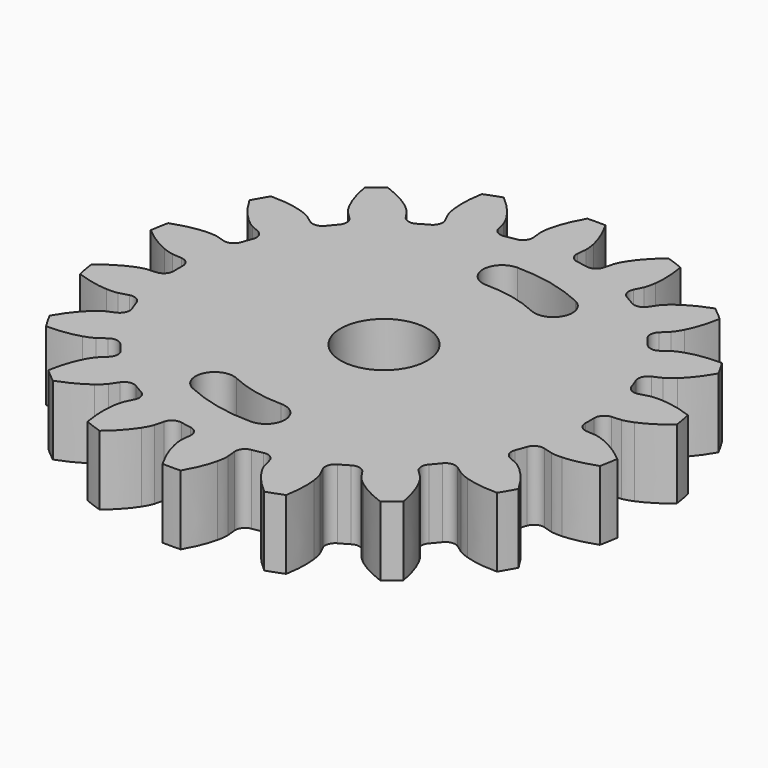
from build123d import *

# Parameters (mm, degrees)
CYLINDER003_R     = 2.5
CYLINDER003_DEPTH = 10
PAD011_DEPTH      = 5
PAD010_DEPTH      = 4


with BuildPart() as cylinder003:
    # Cylinder003 → Cylinder003 (new body)
    with BuildSketch(Plane(origin=(28, 0, 0), x_dir=(1, 0, 0), z_dir=(0, 0, 1))):
        Circle(CYLINDER003_R)
    extrude(amount=CYLINDER003_DEPTH)


with BuildPart() as pad011:
    # Sketch010 → Pad011 (new body)
    with BuildSketch(Plane(origin=(28, 0, 0), x_dir=(1, 0, 0), z_dir=(0, 0, 1))):
        with BuildLine():
            ThreePointArc((3.127375, 6.706678), (1.601653, 7.22459), (0, 7.4))
            ThreePointArc((0, 9.6), (-1.1, 8.5), (0, 7.4))
            ThreePointArc((4.057135, 8.700555), (2.07782, 9.372442), (0, 9.6))
            ThreePointArc((3.127375, 6.706678), (4.589194, 7.238736), (4.057135, 8.700555))
        make_face()
        with BuildLine():
            ThreePointArc((-3.127375, -6.706678), (-1.601653, -7.22459), (0, -7.4))
            ThreePointArc((0, -9.6), (1.1, -8.5), (0, -7.4))
            ThreePointArc((-4.057135, -8.700555), (-2.07782, -9.372442), (0, -9.6))
            ThreePointArc((-3.127375, -6.706678), (-4.589194, -7.238736), (-4.057135, -8.700555))
        make_face()
    extrude(amount=PAD011_DEPTH)


with BuildPart() as cut019:
    # InvoluteGear003 → Pad010 (new body)
    with BuildSketch(Plane(origin=(28, 0, 0), x_dir=(0.984808, 0.173648, 0), z_dir=(0, 0, 1))):
        with BuildLine():
            Line((12.353244, -1.266552), (12.898676, -1.321311))
            add(Edge.make_bspline(
                [(12.898676, -1.321311), (12.968588, -1.323993), (13.178929, -1.323215), (13.530236, -1.24626)],
                knots=[0, 0, 0, 0, 1, 1, 1, 1], degree=3))
            add(Edge.make_bspline(
                [(13.530236, -1.24626), (13.95014, -1.152721), (14.553309, -0.951206), (15.292872, -0.520698)],
                knots=[0, 0, 0, 0, 1, 1, 1, 1], degree=3))
            ThreePointArc((15.292872, -0.520698), (15.301735, 0), (15.292872, 0.520698))
            add(Edge.make_bspline(
                [(15.292872, 0.520698), (14.553309, 0.951206), (13.95014, 1.152721), (13.530236, 1.24626)],
                knots=[0, 0, 0, 0, 1, 1, 1, 1], degree=3))
            add(Edge.make_bspline(
                [(13.530236, 1.24626), (13.178929, 1.323215), (12.968588, 1.323993), (12.898676, 1.321311)],
                knots=[0, 0, 0, 0, 1, 1, 1, 1], degree=3))
            Line((12.898676, 1.321311), (12.353244, 1.266552))
            ThreePointArc((12.353244, 1.266552), (11.943115, 1.383923), (11.727363, 1.751934))
            ThreePointArc((11.727363, 1.751934), (11.677358, 2.059033), (11.619313, 2.364714))
            ThreePointArc((11.619313, 2.364714), (11.696187, 2.784324), (12.041438, 3.034889))
            Line((12.041438, 3.034889), (12.572705, 3.169981))
            add(Edge.make_bspline(
                [(12.572705, 3.169981), (12.639319, 3.191372), (12.836708, 3.264043), (13.14051, 3.456512)],
                knots=[0, 0, 0, 0, 1, 1, 1, 1], degree=3))
            add(Edge.make_bspline(
                [(13.14051, 3.456512), (13.503097, 3.688025), (14.000969, 4.083683), (14.548688, 4.741174)],
                knots=[0, 0, 0, 0, 1, 1, 1, 1], degree=3))
            ThreePointArc((14.548688, 4.741174), (14.378928, 5.233502), (14.19251, 5.719766))
            add(Edge.make_bspline(
                [(14.19251, 5.719766), (13.350306, 5.871367), (12.714589, 5.854432), (12.288017, 5.798715)],
                knots=[0, 0, 0, 0, 1, 1, 1, 1], degree=3))
            add(Edge.make_bspline(
                [(12.288017, 5.798715), (11.931576, 5.750875), (11.733654, 5.679665), (11.668876, 5.653233)],
                knots=[0, 0, 0, 0, 1, 1, 1, 1], degree=3))
            Line((11.668876, 5.653233), (11.175066, 5.415227))
            ThreePointArc((11.175066, 5.415227), (10.749528, 5.385248), (10.420919, 5.657274))
            ThreePointArc((10.420919, 5.657274), (10.268896, 5.92875), (10.109803, 6.196144))
            ThreePointArc((10.109803, 6.196144), (10.038525, 6.61674), (10.277258, 6.970277))
            Line((10.277258, 6.970277), (10.730281, 7.278926))
            add(Edge.make_bspline(
                [(10.730281, 7.278926), (10.785561, 7.32181), (10.946192, 7.45761), (11.165843, 7.742377)],
                knots=[0, 0, 0, 0, 1, 1, 1, 1], degree=3))
            add(Edge.make_bspline(
                [(11.165843, 7.742377), (11.427382, 8.083941), (11.759905, 8.626021), (12.049718, 9.431191)],
                knots=[0, 0, 0, 0, 1, 1, 1, 1], degree=3))
            ThreePointArc((12.049718, 9.431191), (11.721809, 9.835766), (11.380322, 10.228946))
            add(Edge.make_bspline(
                [(11.380322, 10.228946), (10.537058, 10.083353), (9.945472, 9.850013), (9.563682, 9.651759)],
                knots=[0, 0, 0, 0, 1, 1, 1, 1], degree=3))
            add(Edge.make_bspline(
                [(9.563682, 9.651759), (9.245099, 9.484894), (9.083468, 9.350285), (9.031637, 9.303292)],
                knots=[0, 0, 0, 0, 1, 1, 1, 1], degree=3))
            Line((9.031637, 9.303292), (8.64901, 8.910747))
            ThreePointArc((8.64901, 8.910747), (8.259388, 8.737033), (7.857559, 8.880263))
            ThreePointArc((7.857559, 8.880263), (7.621854, 9.083372), (7.380901, 9.280227))
            ThreePointArc((7.380901, 9.280227), (7.17007, 9.65108), (7.273488, 10.064947))
            Line((7.273488, 10.064947), (7.593626, 10.509926))
            add(Edge.make_bspline(
                [(7.593626, 10.509926), (7.630906, 10.56913), (7.735403, 10.751679), (7.844411, 11.094398)],
                knots=[0, 0, 0, 0, 1, 1, 1, 1], degree=3))
            add(Edge.make_bspline(
                [(7.844411, 11.094398), (7.973356, 11.504815), (8.100424, 12.127932), (8.097374, 12.983667)],
                knots=[0, 0, 0, 0, 1, 1, 1, 1], degree=3))
            ThreePointArc((8.097374, 12.983667), (7.650868, 13.251691), (7.195499, 13.504365))
            add(Edge.make_bspline(
                [(7.195499, 13.504365), (6.452886, 13.079139), (5.976784, 12.657536), (5.685825, 12.340659)],
                knots=[0, 0, 0, 0, 1, 1, 1, 1], degree=3))
            add(Edge.make_bspline(
                [(5.685825, 12.340659), (5.443526, 12.074895), (5.337682, 11.893123), (5.305049, 11.831236)],
                knots=[0, 0, 0, 0, 1, 1, 1, 1], degree=3))
            Line((5.305049, 11.831236), (5.079756, 11.331499))
            ThreePointArc((5.079756, 11.331499), (4.773045, 11.035002), (4.346462, 11.032161))
            ThreePointArc((4.346462, 11.032161), (4.055504, 11.142405), (3.761754, 11.244977))
            ThreePointArc((3.761754, 11.244977), (3.436798, 11.521357), (3.392428, 11.945636))
            Line((3.392428, 11.945636), (3.541068, 12.473273))
            add(Edge.make_bspline(
                [(3.541068, 12.473273), (3.555851, 12.541657), (3.59161, 12.748937), (3.576828, 13.108271)],
                knots=[0, 0, 0, 0, 1, 1, 1, 1], degree=3))
            add(Edge.make_bspline(
                [(3.576828, 13.108271), (3.557625, 13.538038), (3.463911, 14.167037), (3.168367, 14.970121)],
                knots=[0, 0, 0, 0, 1, 1, 1, 1], degree=3))
            ThreePointArc((3.168367, 14.970121), (2.657118, 15.069267), (2.142792, 15.150957))
            add(Edge.make_bspline(
                [(2.142792, 15.150957), (1.5904, 14.497387), (1.287208, 13.938374), (1.122174, 13.541093)],
                knots=[0, 0, 0, 0, 1, 1, 1, 1], degree=3))
            add(Edge.make_bspline(
                [(1.122174, 13.541093), (0.985384, 13.208485), (0.948093, 13.001475), (0.938595, 12.932159)],
                knots=[0, 0, 0, 0, 1, 1, 1, 1], degree=3))
            Line((0.938595, 12.932159), (0.897808, 12.385505))
            ThreePointArc((0.897808, 12.385505), (0.711002, 12.001988), (0.311117, 11.853418))
            ThreePointArc((0.311117, 11.853418), (0, 11.8575), (-0.311117, 11.853418))
            ThreePointArc((-0.311117, 11.853418), (-0.711002, 12.001988), (-0.897808, 12.385505))
            Line((-0.897808, 12.385505), (-0.938595, 12.932159))
            add(Edge.make_bspline(
                [(-0.938595, 12.932159), (-0.948093, 13.001475), (-0.985384, 13.208485), (-1.122174, 13.541093)],
                knots=[0, 0, 0, 0, 1, 1, 1, 1], degree=3))
            add(Edge.make_bspline(
                [(-1.122174, 13.541093), (-1.287208, 13.938374), (-1.5904, 14.497387), (-2.142792, 15.150957)],
                knots=[0, 0, 0, 0, 1, 1, 1, 1], degree=3))
            ThreePointArc((-2.142792, 15.150957), (-2.657118, 15.069267), (-3.168367, 14.970121))
            add(Edge.make_bspline(
                [(-3.168367, 14.970121), (-3.463911, 14.167037), (-3.557625, 13.538038), (-3.576828, 13.108271)],
                knots=[0, 0, 0, 0, 1, 1, 1, 1], degree=3))
            add(Edge.make_bspline(
                [(-3.576828, 13.108271), (-3.59161, 12.748937), (-3.555851, 12.541657), (-3.541068, 12.473273)],
                knots=[0, 0, 0, 0, 1, 1, 1, 1], degree=3))
            Line((-3.541068, 12.473273), (-3.392428, 11.945636))
            ThreePointArc((-3.392428, 11.945636), (-3.436798, 11.521357), (-3.761754, 11.244977))
            ThreePointArc((-3.761754, 11.244977), (-4.055504, 11.142405), (-4.346462, 11.032161))
            ThreePointArc((-4.346462, 11.032161), (-4.773045, 11.035002), (-5.079756, 11.331499))
            Line((-5.079756, 11.331499), (-5.305049, 11.831236))
            add(Edge.make_bspline(
                [(-5.305049, 11.831236), (-5.337682, 11.893123), (-5.443526, 12.074895), (-5.685825, 12.340659)],
                knots=[0, 0, 0, 0, 1, 1, 1, 1], degree=3))
            add(Edge.make_bspline(
                [(-5.685825, 12.340659), (-5.976784, 12.657536), (-6.452886, 13.079139), (-7.195499, 13.504365)],
                knots=[0, 0, 0, 0, 1, 1, 1, 1], degree=3))
            ThreePointArc((-7.195499, 13.504365), (-7.650868, 13.251691), (-8.097374, 12.983667))
            add(Edge.make_bspline(
                [(-8.097374, 12.983667), (-8.100424, 12.127932), (-7.973356, 11.504815), (-7.844411, 11.094398)],
                knots=[0, 0, 0, 0, 1, 1, 1, 1], degree=3))
            add(Edge.make_bspline(
                [(-7.844411, 11.094398), (-7.735403, 10.751679), (-7.630906, 10.56913), (-7.593626, 10.509926)],
                knots=[0, 0, 0, 0, 1, 1, 1, 1], degree=3))
            Line((-7.593626, 10.509926), (-7.273488, 10.064947))
            ThreePointArc((-7.273488, 10.064947), (-7.17007, 9.65108), (-7.380901, 9.280227))
            ThreePointArc((-7.380901, 9.280227), (-7.621854, 9.083372), (-7.857559, 8.880263))
            ThreePointArc((-7.857559, 8.880263), (-8.259388, 8.737033), (-8.64901, 8.910747))
            Line((-8.64901, 8.910747), (-9.031637, 9.303292))
            add(Edge.make_bspline(
                [(-9.031637, 9.303292), (-9.083468, 9.350285), (-9.245099, 9.484894), (-9.563682, 9.651759)],
                knots=[0, 0, 0, 0, 1, 1, 1, 1], degree=3))
            add(Edge.make_bspline(
                [(-9.563682, 9.651759), (-9.945472, 9.850013), (-10.537058, 10.083353), (-11.380322, 10.228946)],
                knots=[0, 0, 0, 0, 1, 1, 1, 1], degree=3))
            ThreePointArc((-11.380322, 10.228946), (-11.721809, 9.835766), (-12.049718, 9.431191))
            add(Edge.make_bspline(
                [(-12.049718, 9.431191), (-11.759905, 8.626021), (-11.427382, 8.083941), (-11.165843, 7.742377)],
                knots=[0, 0, 0, 0, 1, 1, 1, 1], degree=3))
            add(Edge.make_bspline(
                [(-11.165843, 7.742377), (-10.946192, 7.45761), (-10.785561, 7.32181), (-10.730281, 7.278926)],
                knots=[0, 0, 0, 0, 1, 1, 1, 1], degree=3))
            Line((-10.730281, 7.278926), (-10.277258, 6.970277))
            ThreePointArc((-10.277258, 6.970277), (-10.038525, 6.61674), (-10.109803, 6.196144))
            ThreePointArc((-10.109803, 6.196144), (-10.268896, 5.92875), (-10.420919, 5.657274))
            ThreePointArc((-10.420919, 5.657274), (-10.749528, 5.385248), (-11.175066, 5.415227))
            Line((-11.175066, 5.415227), (-11.668876, 5.653233))
            add(Edge.make_bspline(
                [(-11.668876, 5.653233), (-11.733654, 5.679665), (-11.931576, 5.750875), (-12.288017, 5.798715)],
                knots=[0, 0, 0, 0, 1, 1, 1, 1], degree=3))
            add(Edge.make_bspline(
                [(-12.288017, 5.798715), (-12.714589, 5.854432), (-13.350306, 5.871367), (-14.19251, 5.719766)],
                knots=[0, 0, 0, 0, 1, 1, 1, 1], degree=3))
            ThreePointArc((-14.19251, 5.719766), (-14.378928, 5.233502), (-14.548688, 4.741174))
            add(Edge.make_bspline(
                [(-14.548688, 4.741174), (-14.000969, 4.083683), (-13.503097, 3.688025), (-13.14051, 3.456512)],
                knots=[0, 0, 0, 0, 1, 1, 1, 1], degree=3))
            add(Edge.make_bspline(
                [(-13.14051, 3.456512), (-12.836708, 3.264043), (-12.639319, 3.191372), (-12.572705, 3.169981)],
                knots=[0, 0, 0, 0, 1, 1, 1, 1], degree=3))
            Line((-12.572705, 3.169981), (-12.041438, 3.034889))
            ThreePointArc((-12.041438, 3.034889), (-11.696187, 2.784324), (-11.619313, 2.364714))
            ThreePointArc((-11.619313, 2.364714), (-11.677358, 2.059033), (-11.727363, 1.751934))
            ThreePointArc((-11.727363, 1.751934), (-11.943115, 1.383923), (-12.353244, 1.266552))
            Line((-12.353244, 1.266552), (-12.898676, 1.321311))
            add(Edge.make_bspline(
                [(-12.898676, 1.321311), (-12.968588, 1.323993), (-13.178929, 1.323215), (-13.530236, 1.24626)],
                knots=[0, 0, 0, 0, 1, 1, 1, 1], degree=3))
            add(Edge.make_bspline(
                [(-13.530236, 1.24626), (-13.95014, 1.152721), (-14.553309, 0.951206), (-15.292872, 0.520698)],
                knots=[0, 0, 0, 0, 1, 1, 1, 1], degree=3))
            ThreePointArc((-15.292872, 0.520698), (-15.301735, 0), (-15.292872, -0.520698))
            add(Edge.make_bspline(
                [(-15.292872, -0.520698), (-14.553309, -0.951206), (-13.95014, -1.152721), (-13.530236, -1.24626)],
                knots=[0, 0, 0, 0, 1, 1, 1, 1], degree=3))
            add(Edge.make_bspline(
                [(-13.530236, -1.24626), (-13.178929, -1.323215), (-12.968588, -1.323993), (-12.898676, -1.321311)],
                knots=[0, 0, 0, 0, 1, 1, 1, 1], degree=3))
            Line((-12.898676, -1.321311), (-12.353244, -1.266552))
            ThreePointArc((-12.353244, -1.266552), (-11.943115, -1.383923), (-11.727363, -1.751934))
            ThreePointArc((-11.727363, -1.751934), (-11.677358, -2.059033), (-11.619313, -2.364714))
            ThreePointArc((-11.619313, -2.364714), (-11.696187, -2.784324), (-12.041438, -3.034889))
            Line((-12.041438, -3.034889), (-12.572705, -3.169981))
            add(Edge.make_bspline(
                [(-12.572705, -3.169981), (-12.639319, -3.191372), (-12.836708, -3.264043), (-13.14051, -3.456512)],
                knots=[0, 0, 0, 0, 1, 1, 1, 1], degree=3))
            add(Edge.make_bspline(
                [(-13.14051, -3.456512), (-13.503097, -3.688025), (-14.000969, -4.083683), (-14.548688, -4.741174)],
                knots=[0, 0, 0, 0, 1, 1, 1, 1], degree=3))
            ThreePointArc((-14.548688, -4.741174), (-14.378928, -5.233502), (-14.19251, -5.719766))
            add(Edge.make_bspline(
                [(-14.19251, -5.719766), (-13.350306, -5.871367), (-12.714589, -5.854432), (-12.288017, -5.798715)],
                knots=[0, 0, 0, 0, 1, 1, 1, 1], degree=3))
            add(Edge.make_bspline(
                [(-12.288017, -5.798715), (-11.931576, -5.750875), (-11.733654, -5.679665), (-11.668876, -5.653233)],
                knots=[0, 0, 0, 0, 1, 1, 1, 1], degree=3))
            Line((-11.668876, -5.653233), (-11.175066, -5.415227))
            ThreePointArc((-11.175066, -5.415227), (-10.749528, -5.385248), (-10.420919, -5.657274))
            ThreePointArc((-10.420919, -5.657274), (-10.268896, -5.92875), (-10.109803, -6.196144))
            ThreePointArc((-10.109803, -6.196144), (-10.038525, -6.61674), (-10.277258, -6.970277))
            Line((-10.277258, -6.970277), (-10.730281, -7.278926))
            add(Edge.make_bspline(
                [(-10.730281, -7.278926), (-10.785561, -7.32181), (-10.946192, -7.45761), (-11.165843, -7.742377)],
                knots=[0, 0, 0, 0, 1, 1, 1, 1], degree=3))
            add(Edge.make_bspline(
                [(-11.165843, -7.742377), (-11.427382, -8.083941), (-11.759905, -8.626021), (-12.049718, -9.431191)],
                knots=[0, 0, 0, 0, 1, 1, 1, 1], degree=3))
            ThreePointArc((-12.049718, -9.431191), (-11.721809, -9.835766), (-11.380322, -10.228946))
            add(Edge.make_bspline(
                [(-11.380322, -10.228946), (-10.537058, -10.083353), (-9.945472, -9.850013), (-9.563682, -9.651759)],
                knots=[0, 0, 0, 0, 1, 1, 1, 1], degree=3))
            add(Edge.make_bspline(
                [(-9.563682, -9.651759), (-9.245099, -9.484894), (-9.083468, -9.350285), (-9.031637, -9.303292)],
                knots=[0, 0, 0, 0, 1, 1, 1, 1], degree=3))
            Line((-9.031637, -9.303292), (-8.64901, -8.910747))
            ThreePointArc((-8.64901, -8.910747), (-8.259388, -8.737033), (-7.857559, -8.880263))
            ThreePointArc((-7.857559, -8.880263), (-7.621854, -9.083372), (-7.380901, -9.280227))
            ThreePointArc((-7.380901, -9.280227), (-7.17007, -9.65108), (-7.273488, -10.064947))
            Line((-7.273488, -10.064947), (-7.593626, -10.509926))
            add(Edge.make_bspline(
                [(-7.593626, -10.509926), (-7.630906, -10.56913), (-7.735403, -10.751679), (-7.844411, -11.094398)],
                knots=[0, 0, 0, 0, 1, 1, 1, 1], degree=3))
            add(Edge.make_bspline(
                [(-7.844411, -11.094398), (-7.973356, -11.504815), (-8.100424, -12.127932), (-8.097374, -12.983667)],
                knots=[0, 0, 0, 0, 1, 1, 1, 1], degree=3))
            ThreePointArc((-8.097374, -12.983667), (-7.650868, -13.251691), (-7.195499, -13.504365))
            add(Edge.make_bspline(
                [(-7.195499, -13.504365), (-6.452886, -13.079139), (-5.976784, -12.657536), (-5.685825, -12.340659)],
                knots=[0, 0, 0, 0, 1, 1, 1, 1], degree=3))
            add(Edge.make_bspline(
                [(-5.685825, -12.340659), (-5.443526, -12.074895), (-5.337682, -11.893123), (-5.305049, -11.831236)],
                knots=[0, 0, 0, 0, 1, 1, 1, 1], degree=3))
            Line((-5.305049, -11.831236), (-5.079756, -11.331499))
            ThreePointArc((-5.079756, -11.331499), (-4.773045, -11.035002), (-4.346462, -11.032161))
            ThreePointArc((-4.346462, -11.032161), (-4.055504, -11.142405), (-3.761754, -11.244977))
            ThreePointArc((-3.761754, -11.244977), (-3.436798, -11.521357), (-3.392428, -11.945636))
            Line((-3.392428, -11.945636), (-3.541068, -12.473273))
            add(Edge.make_bspline(
                [(-3.541068, -12.473273), (-3.555851, -12.541657), (-3.59161, -12.748937), (-3.576828, -13.108271)],
                knots=[0, 0, 0, 0, 1, 1, 1, 1], degree=3))
            add(Edge.make_bspline(
                [(-3.576828, -13.108271), (-3.557625, -13.538038), (-3.463911, -14.167037), (-3.168367, -14.970121)],
                knots=[0, 0, 0, 0, 1, 1, 1, 1], degree=3))
            ThreePointArc((-3.168367, -14.970121), (-2.657118, -15.069267), (-2.142792, -15.150957))
            add(Edge.make_bspline(
                [(-2.142792, -15.150957), (-1.5904, -14.497387), (-1.287208, -13.938374), (-1.122174, -13.541093)],
                knots=[0, 0, 0, 0, 1, 1, 1, 1], degree=3))
            add(Edge.make_bspline(
                [(-1.122174, -13.541093), (-0.985384, -13.208485), (-0.948093, -13.001475), (-0.938595, -12.932159)],
                knots=[0, 0, 0, 0, 1, 1, 1, 1], degree=3))
            Line((-0.938595, -12.932159), (-0.897808, -12.385505))
            ThreePointArc((-0.897808, -12.385505), (-0.711002, -12.001988), (-0.311117, -11.853418))
            ThreePointArc((-0.311117, -11.853418), (0, -11.8575), (0.311117, -11.853418))
            ThreePointArc((0.311117, -11.853418), (0.711002, -12.001988), (0.897808, -12.385505))
            Line((0.897808, -12.385505), (0.938595, -12.932159))
            add(Edge.make_bspline(
                [(0.938595, -12.932159), (0.948093, -13.001475), (0.985384, -13.208485), (1.122174, -13.541093)],
                knots=[0, 0, 0, 0, 1, 1, 1, 1], degree=3))
            add(Edge.make_bspline(
                [(1.122174, -13.541093), (1.287208, -13.938374), (1.5904, -14.497387), (2.142792, -15.150957)],
                knots=[0, 0, 0, 0, 1, 1, 1, 1], degree=3))
            ThreePointArc((2.142792, -15.150957), (2.657118, -15.069267), (3.168367, -14.970121))
            add(Edge.make_bspline(
                [(3.168367, -14.970121), (3.463911, -14.167037), (3.557625, -13.538038), (3.576828, -13.108271)],
                knots=[0, 0, 0, 0, 1, 1, 1, 1], degree=3))
            add(Edge.make_bspline(
                [(3.576828, -13.108271), (3.59161, -12.748937), (3.555851, -12.541657), (3.541068, -12.473273)],
                knots=[0, 0, 0, 0, 1, 1, 1, 1], degree=3))
            Line((3.541068, -12.473273), (3.392428, -11.945636))
            ThreePointArc((3.392428, -11.945636), (3.436798, -11.521357), (3.761754, -11.244977))
            ThreePointArc((3.761754, -11.244977), (4.055504, -11.142405), (4.346462, -11.032161))
            ThreePointArc((4.346462, -11.032161), (4.773045, -11.035002), (5.079756, -11.331499))
            Line((5.079756, -11.331499), (5.305049, -11.831236))
            add(Edge.make_bspline(
                [(5.305049, -11.831236), (5.337682, -11.893123), (5.443526, -12.074895), (5.685825, -12.340659)],
                knots=[0, 0, 0, 0, 1, 1, 1, 1], degree=3))
            add(Edge.make_bspline(
                [(5.685825, -12.340659), (5.976784, -12.657536), (6.452886, -13.079139), (7.195499, -13.504365)],
                knots=[0, 0, 0, 0, 1, 1, 1, 1], degree=3))
            ThreePointArc((7.195499, -13.504365), (7.650868, -13.251691), (8.097374, -12.983667))
            add(Edge.make_bspline(
                [(8.097374, -12.983667), (8.100424, -12.127932), (7.973356, -11.504815), (7.844411, -11.094398)],
                knots=[0, 0, 0, 0, 1, 1, 1, 1], degree=3))
            add(Edge.make_bspline(
                [(7.844411, -11.094398), (7.735403, -10.751679), (7.630906, -10.56913), (7.593626, -10.509926)],
                knots=[0, 0, 0, 0, 1, 1, 1, 1], degree=3))
            Line((7.593626, -10.509926), (7.273488, -10.064947))
            ThreePointArc((7.273488, -10.064947), (7.17007, -9.65108), (7.380901, -9.280227))
            ThreePointArc((7.380901, -9.280227), (7.621854, -9.083372), (7.857559, -8.880263))
            ThreePointArc((7.857559, -8.880263), (8.259388, -8.737033), (8.64901, -8.910747))
            Line((8.64901, -8.910747), (9.031637, -9.303292))
            add(Edge.make_bspline(
                [(9.031637, -9.303292), (9.083468, -9.350285), (9.245099, -9.484894), (9.563682, -9.651759)],
                knots=[0, 0, 0, 0, 1, 1, 1, 1], degree=3))
            add(Edge.make_bspline(
                [(9.563682, -9.651759), (9.945472, -9.850013), (10.537058, -10.083353), (11.380322, -10.228946)],
                knots=[0, 0, 0, 0, 1, 1, 1, 1], degree=3))
            ThreePointArc((11.380322, -10.228946), (11.721809, -9.835766), (12.049718, -9.431191))
            add(Edge.make_bspline(
                [(12.049718, -9.431191), (11.759905, -8.626021), (11.427382, -8.083941), (11.165843, -7.742377)],
                knots=[0, 0, 0, 0, 1, 1, 1, 1], degree=3))
            add(Edge.make_bspline(
                [(11.165843, -7.742377), (10.946192, -7.45761), (10.785561, -7.32181), (10.730281, -7.278926)],
                knots=[0, 0, 0, 0, 1, 1, 1, 1], degree=3))
            Line((10.730281, -7.278926), (10.277258, -6.970277))
            ThreePointArc((10.277258, -6.970277), (10.038525, -6.61674), (10.109803, -6.196144))
            ThreePointArc((10.109803, -6.196144), (10.268896, -5.92875), (10.420919, -5.657274))
            ThreePointArc((10.420919, -5.657274), (10.749528, -5.385248), (11.175066, -5.415227))
            Line((11.175066, -5.415227), (11.668876, -5.653233))
            add(Edge.make_bspline(
                [(11.668876, -5.653233), (11.733654, -5.679665), (11.931576, -5.750875), (12.288017, -5.798715)],
                knots=[0, 0, 0, 0, 1, 1, 1, 1], degree=3))
            add(Edge.make_bspline(
                [(12.288017, -5.798715), (12.714589, -5.854432), (13.350306, -5.871367), (14.19251, -5.719766)],
                knots=[0, 0, 0, 0, 1, 1, 1, 1], degree=3))
            ThreePointArc((14.19251, -5.719766), (14.378928, -5.233502), (14.548688, -4.741174))
            add(Edge.make_bspline(
                [(14.548688, -4.741174), (14.000969, -4.083683), (13.503097, -3.688025), (13.14051, -3.456512)],
                knots=[0, 0, 0, 0, 1, 1, 1, 1], degree=3))
            add(Edge.make_bspline(
                [(13.14051, -3.456512), (12.836708, -3.264043), (12.639319, -3.191372), (12.572705, -3.169981)],
                knots=[0, 0, 0, 0, 1, 1, 1, 1], degree=3))
            Line((12.572705, -3.169981), (12.041438, -3.034889))
            ThreePointArc((12.041438, -3.034889), (11.696187, -2.784324), (11.619313, -2.364714))
            ThreePointArc((11.619313, -2.364714), (11.677358, -2.059033), (11.727363, -1.751934))
            ThreePointArc((11.727363, -1.751934), (11.943115, -1.383923), (12.353244, -1.266552))
        make_face()
    extrude(amount=PAD010_DEPTH)

    # Cut018: cut Pad011
    add(pad011.part, mode=Mode.SUBTRACT)

    # Cut019: cut Cylinder003
    add(cylinder003.part, mode=Mode.SUBTRACT)


solid = cut019.part
